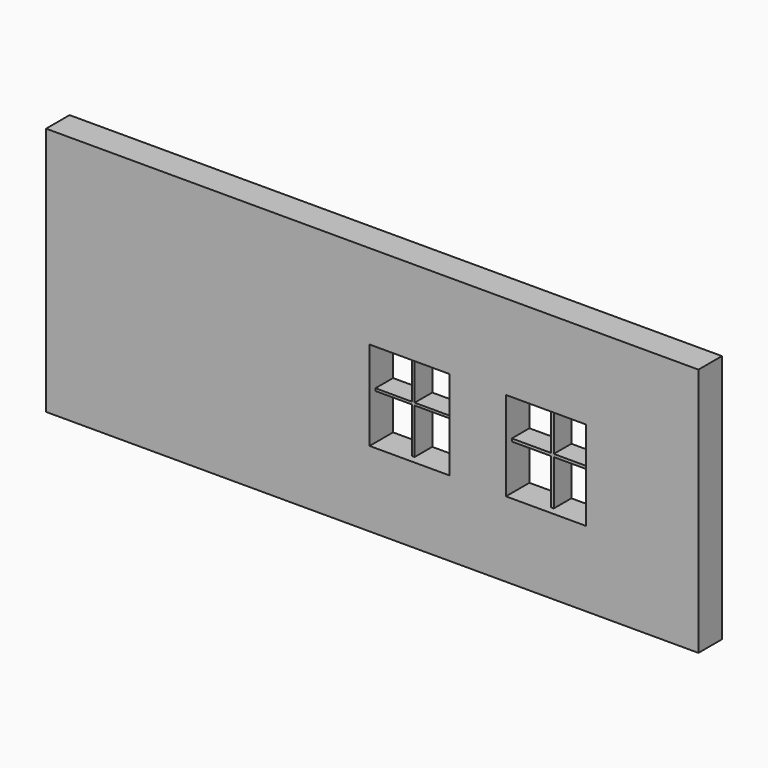
from build123d import *

# Parameters (mm, degrees)
F0_W     = 88.90553
F0_H     = 33.9866913855
F0_W_2   = 10.8759109862
F0_H_2   = 12.1689303778
F1_DEPTH = 4
F2_W     = 5.185120739
F2_H     = 0.3368707257
F2_W_2   = 0.3368705511
F2_H_2   = 5.8244192624
F2_W_3   = 5.7631786913
F2_H_3   = 6.7240155768
F2_W_4   = 0.3789812326
F2_H_4   = 6.0215640697
F2_H_5   = 0.3789797775
F2_W_5   = 5.6004747748
F2_W_6   = 5.3478218615
F2_H_6   = 6.5268705366
F3_DEPTH = 3


with BuildPart() as f1:
    # F0 (on Front) → F1 (new body)
    with BuildSketch(Plane.XZ):
        with Locations((8.9324982585, -0.6028357893)):
            Rectangle(F0_W, F0_H)
        Polygon((13.3592998609, -7.3377853259), (8.5670314729, -7.3377853259), (8.5670314729, 4.8311450519), (13.3592998609, 4.8311450519), (13.6629249901, 4.8311450519), (19.4429424591, 4.8311450519), (19.4429424591, -7.3377853259), (13.6629249901, -7.3377853259), align=None, mode=Mode.SUBTRACT)
        with Locations((32.5910145184, -1.2596107554)):
            Rectangle(F0_W_2, F0_H_2, mode=Mode.SUBTRACT)
    extrude(amount=F1_DEPTH)

    # F2 (on Front) → F3 (join)
    with BuildSketch(Plane.XZ):
        with Locations((10.9808533452, -0.9881480655)):
            Rectangle(F2_W, F2_H)
        with Locations((13.7418489903, 2.0924969285)):
            Rectangle(F2_W_2, F2_H_2)
        with Locations((13.7418489903, -0.9881480655)):
            Rectangle(F2_W_2, F2_H)
        with Locations((16.7918736115, -0.9881480655)):
            Rectangle(F2_W_3, F2_H)
        with Locations((13.7418489903, -4.5185912168)):
            Rectangle(F2_W_2, F2_H_3)
        with Locations((32.6793044806, 2.2119045316)):
            Rectangle(F2_W_4, F2_H_4)
        with Locations((32.6793044806, -0.988367392)):
            Rectangle(F2_W_4, F2_H_5)
        with Locations((29.6895764768, -0.988367392)):
            Rectangle(F2_W_5, F2_H_5)
        with Locations((35.5427060276, -0.988367392)):
            Rectangle(F2_W_6, F2_H_5)
        with Locations((32.6793044806, -4.441292549)):
            Rectangle(F2_W_4, F2_H_6)
    extrude(amount=F3_DEPTH)


solid = f1.part
